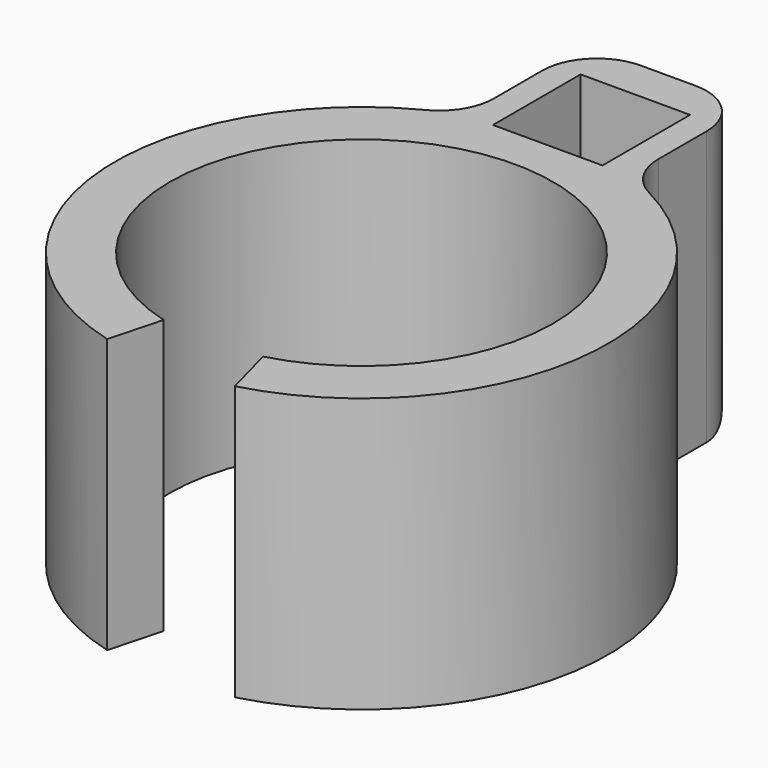
from build123d import *

# Parameters (mm, degrees)
PAD_DEPTH    = 10
SKETCH001_W  = 6
SKETCH001_H  = 5.514719
PAD001_DEPTH = 10
FILLET_R     = 2
SKETCH002_W  = 4
SKETCH002_H  = 4
POCKET_DEPTH = 10.001


with BuildPart() as part:
    # Sketch → Pad (new body)
    with BuildSketch(Plane.XY):
        with BuildLine():
            ThreePointArc((2.329371, -8.693332), (0, 9), (-2.329371, -8.693332))
            Line((-2.329371, -8.693332), (-1.811733, -6.761481))
            ThreePointArc((1.811733, -6.761481), (0, 7), (-1.811733, -6.761481))
            Line((1.811733, -6.761481), (2.329371, -8.693332))
        make_face()
    extrude(amount=PAD_DEPTH)

    # Sketch001 (on Face6 of Pad) → Pad001 (join)
    with BuildSketch(Plane.XY.offset(10)):
        with Locations((0, 11.242641)):
            Rectangle(SKETCH001_W, SKETCH001_H)
    extrude(amount=-PAD001_DEPTH)

    # Fillet
    fillet_edges = [part.edges().sort_by_distance(p)[0] for p in [
        (-3, 14, 5),
        (0, 14, 0),
        (3, 14, 5),
        (3, 8.485281, 5),
        (-3, 8.485281, 5),
    ]]
    fillet(fillet_edges, radius=FILLET_R)

    # Sketch002 (on Face18 of Fillet) → Pocket (cut, through all)
    with BuildSketch(Plane.XY.offset(10)):
        with Locations((0, 10.5)):
            Rectangle(SKETCH002_W, SKETCH002_H)
    extrude(amount=-POCKET_DEPTH, mode=Mode.SUBTRACT)


solid = part.part
